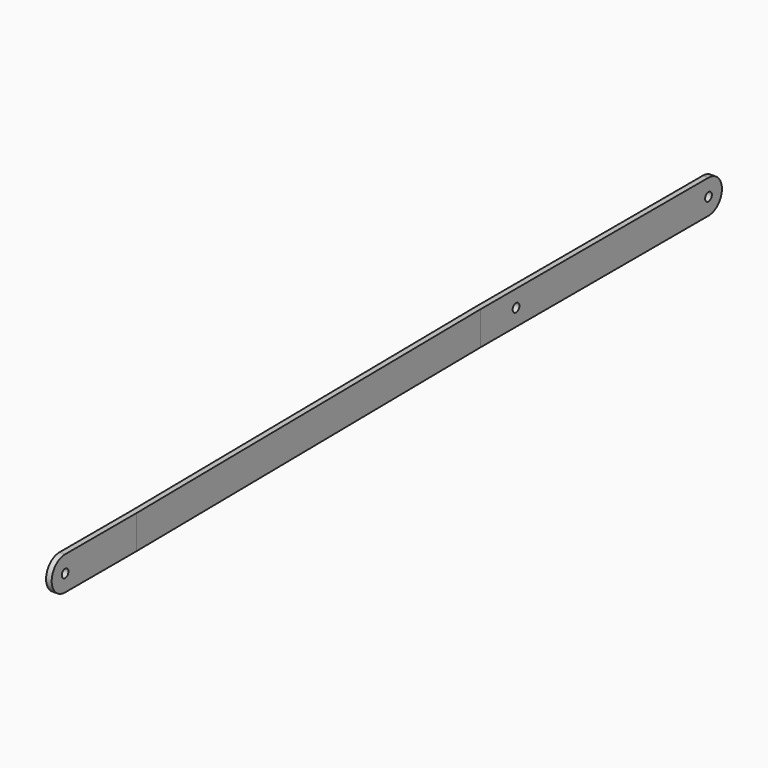
from build123d import *

# Parameters (mm, degrees)
F0_R     = 2.38125
F1_DEPTH = 6.35
F3_DEPTH = 25.4


with BuildPart() as f1:
    # F0 (on Right) → F1 (new body)
    with BuildSketch(Plane.YZ):
        with BuildLine():
            Line((460.375, 9.525), (0, 9.525))
            ThreePointArc((0, 9.525), (-9.525, 0), (0, -9.525))
            Line((0, -9.525), (460.375, -9.525))
            ThreePointArc((460.375, -9.525), (469.9, 0), (460.375, 9.525))
        make_face()
        Circle(F0_R, mode=Mode.SUBTRACT)
        with Locations((323.85, 0)):
            Circle(F0_R, mode=Mode.SUBTRACT)
        with Locations((460.375, 0)):
            Circle(F0_R, mode=Mode.SUBTRACT)
    extrude(amount=F1_DEPTH)

    # F2 (on face) → F3 (cut)
    with BuildSketch(Plane.XY.offset(9.525)):
        Polygon((3.175, 298.47035), (6.35, 50.8), (6.35, 469.9), (3.175, 469.9), align=None)
        Polygon((3.175, 50.77965), (0, 298.45), (0, -9.525), (3.175, -9.525), align=None)
    extrude(amount=-F3_DEPTH, mode=Mode.SUBTRACT)


solid = f1.part
